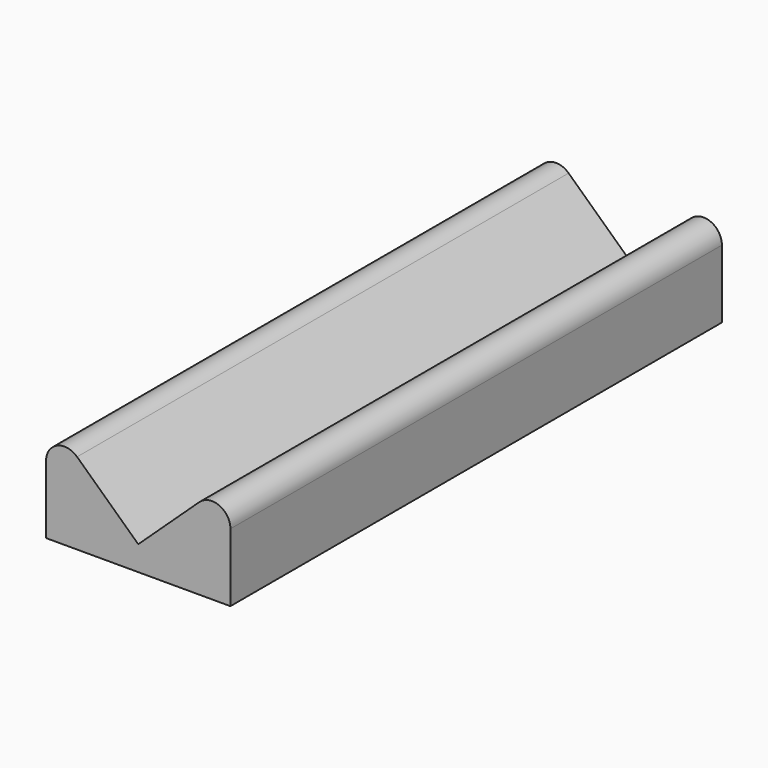
from build123d import *

# Parameters (mm, degrees)
F1_DEPTH = 25


with BuildPart() as f1:
    # F0 (on Front) → F1 (new body, symmetric)
    with BuildSketch(Plane.XZ):
        with BuildLine():
            Line((-7.5, 0), (0, 0))
            Line((0, 0), (7.5, 0))
            Line((7.5, 0), (7.5, 5.544099))
            ThreePointArc((7.5, 5.544099), (6.598124, 6.919689), (4.977002, 6.64113))
            Line((4.977002, 6.64113), (0, 2))
            Line((0, 2), (-4.977002, 6.64113))
            ThreePointArc((-4.977002, 6.64113), (-6.598124, 6.919689), (-7.5, 5.544099))
            Line((-7.5, 5.544099), (-7.5, 0))
        make_face()
    extrude(amount=F1_DEPTH, both=True)


solid = f1.part
